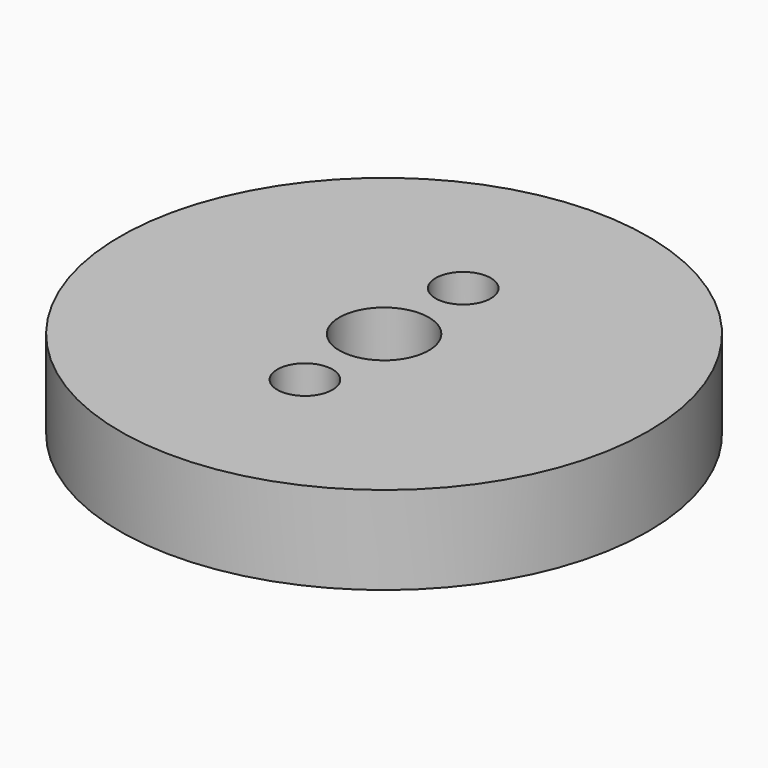
from build123d import *

# Parameters (mm, degrees)
F0_R     = 18.875
F0_R_2   = 1.975
F1_DEPTH = 6.3
F2_D     = 6.4


with BuildPart() as f1:
    # F0 (on Top) → F1 (new body)
    with BuildSketch(Plane.XY):
        Circle(F0_R)
        with Locations((0, -7.075)):
            Circle(F0_R_2, mode=Mode.SUBTRACT)
        with Locations((0, 7.075)):
            Circle(F0_R_2, mode=Mode.SUBTRACT)
    extrude(amount=F1_DEPTH)

    # F2 (through all)
    with Locations(Plane(origin=(0, 0, 0), x_dir=(1, 0, 0), z_dir=(0, 0, -1))):
        with Locations((0, 0)):
            Hole(F2_D / 2)


solid = f1.part
